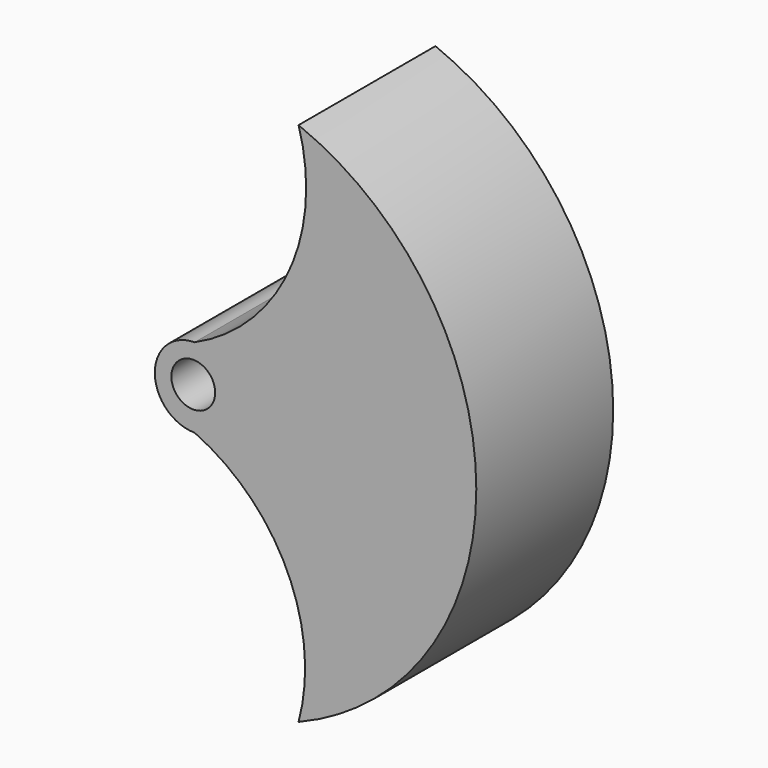
from build123d import *

# Parameters (mm, degrees)
F0_R     = 3.252454
F1_DEPTH = 25.4


with BuildPart() as f1:
    # F0 (on Front) → F1 (new body)
    with BuildSketch(Plane.XZ):
        with BuildLine():
            ThreePointArc((15.437143, 39.308286), (13.978799, 19.713721), (0, 5.9055))
            ThreePointArc((0, 5.9055), (-5.9055, 0), (0, -5.9055))
            ThreePointArc((0, -5.9055), (13.736507, -19.459057), (15.437143, -38.681398))
            ThreePointArc((15.437143, -38.681398), (41.816186, 0.313444), (15.437143, 39.308286))
        make_face()
        with Locations((-0.195414, 0.313444)):
            Circle(F0_R, mode=Mode.SUBTRACT)
    extrude(amount=F1_DEPTH)


solid = f1.part
